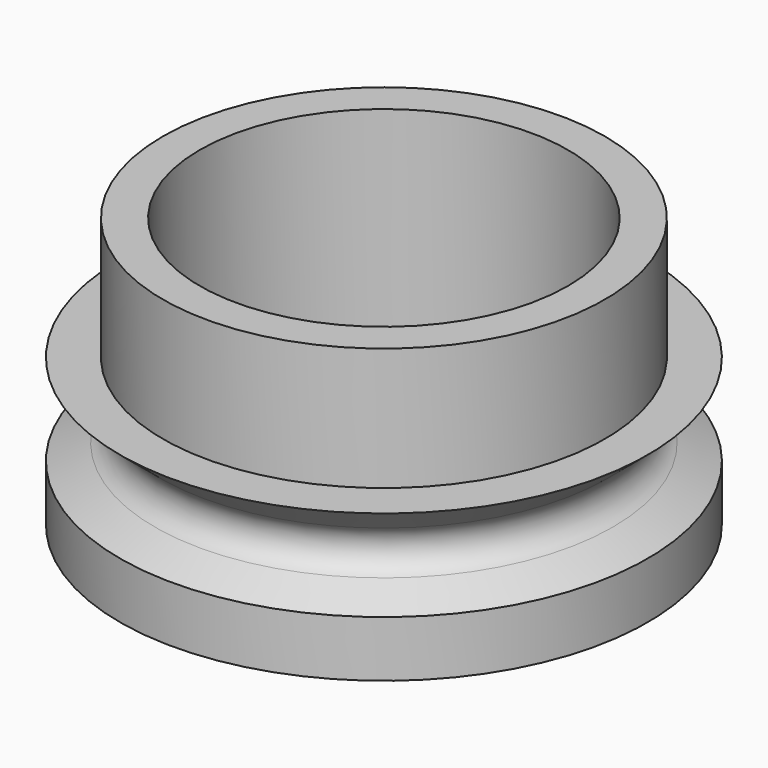
from build123d import *


with BuildPart() as f1:
    # F0 (on Front) → F1 (revolve)
    with BuildSketch(Plane.XZ):
        with BuildLine():
            Line((-10.75, 0), (-7.5, 0))
            Line((-7.5, 0), (-7.5, 11))
            Line((-7.5, 11), (-9, 11))
            Line((-9, 11), (-9, 6))
            Line((-9, 6), (-10.75, 6))
            Line((-10.75, 6), (-9.107077, 4.620931))
            ThreePointArc((-9.107077, 4.620931), (-8.758565, 3.724398), (-9.32736, 2.948702))
            Line((-9.32736, 2.948702), (-10.75, 2.285273))
            Line((-10.75, 2.285273), (-10.75, 0.665314))
            Line((-10.75, 0.665314), (-10.75, 0))
        make_face()
    revolve(axis=Axis((0, 0, 13.534962), (0, 0, 1)))


solid = f1.part
